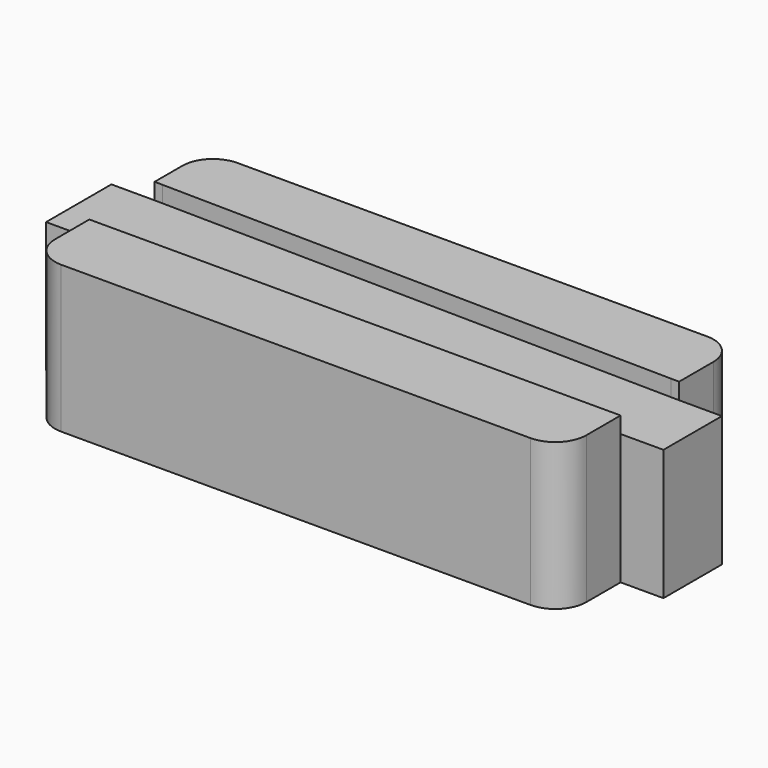
from build123d import *

# Parameters (mm, degrees)
F0_W     = 1.05921
F0_H     = 1.6
F0_W_2   = 1.05
F0_H_2   = 1.39079
F1_DEPTH = 3.2
F2_DEPTH = 3.6


with BuildPart() as f1:
    # F0 (on Top) → F1 (new body)
    with BuildSketch(Plane.XY):
        Polygon((6.352665, 1.360319), (6.352665, -0.030471), (5.302665, -0.030471), (5.302665, -0.230613), (5.502665, -0.230471), (6.552665, -0.230471), (6.552665, 1.560319), (5.502665, 1.560319), (5.302665, 1.563394), (5.302665, 1.360319), align=None)
        with BuildLine():
            Line((5.502665, -0.230471), (5.302665, -0.230613))
            Line((5.302665, -0.230613), (5.302665, -1.280471))
            ThreePointArc((5.302665, -1.280471), (5.138876, -1.675892), (4.743455, -1.839681))
            Line((4.743455, -1.839681), (-6.756545, -1.839681))
            ThreePointArc((-6.756545, -1.839681), (-7.145453, -1.67859), (-7.306545, -1.289681))
            Line((-7.306545, -1.289681), (-7.306545, -0.239539))
            Line((-7.306545, -0.239539), (-7.506545, -0.239681))
            Line((-7.506545, -0.239681), (-7.506545, -1.289681))
            ThreePointArc((-7.506545, -1.289681), (-7.286875, -1.820011), (-6.756545, -2.039681))
            Line((-6.756545, -2.039681), (4.743455, -2.039681))
            ThreePointArc((4.743455, -2.039681), (5.280298, -1.817314), (5.502665, -1.280471))
            Line((5.502665, -1.280471), (5.502665, -0.230471))
        make_face()
        Polygon((-7.506545, -0.239681), (-7.306545, -0.239539), (-7.306545, -0.039681), (-8.365755, -0.039681), (-8.365755, 1.560319), (-7.306545, 1.560319), (-7.306545, 1.757244), (-7.506545, 1.760319), (-8.565755, 1.760319), (-8.565755, -0.239681), align=None)
        with BuildLine():
            Line((5.302665, 2.610319), (5.302665, 1.563394))
            Line((5.302665, 1.563394), (5.502665, 1.560319))
            Line((5.502665, 1.560319), (5.502665, 2.610319))
            ThreePointArc((5.502665, 2.610319), (5.282995, 3.140649), (4.752665, 3.360319))
            Line((4.752665, 3.360319), (-6.756545, 3.360319))
            ThreePointArc((-6.756545, 3.360319), (-7.286875, 3.140649), (-7.506545, 2.610319))
            Line((-7.506545, 2.610319), (-7.506545, 1.760319))
            Line((-7.506545, 1.760319), (-7.306545, 1.757244))
            Line((-7.306545, 1.757244), (-7.306545, 2.610319))
            ThreePointArc((-7.306545, 2.610319), (-7.145453, 2.999228), (-6.756545, 3.160319))
            Line((-6.756545, 3.160319), (4.752665, 3.160319))
            ThreePointArc((4.752665, 3.160319), (5.141574, 2.999228), (5.302665, 2.610319))
        make_face()
        with BuildLine():
            Line((-7.306545, 1.757244), (5.302665, 1.563394))
            Line((5.302665, 1.563394), (5.302665, 2.610319))
            ThreePointArc((5.302665, 2.610319), (5.141574, 2.999228), (4.752665, 3.160319))
            Line((4.752665, 3.160319), (-6.756545, 3.160319))
            ThreePointArc((-6.756545, 3.160319), (-7.145453, 2.999228), (-7.306545, 2.610319))
            Line((-7.306545, 2.610319), (-7.306545, 1.757244))
        make_face()
        with Locations((-7.83615, 0.760319)):
            Rectangle(F0_W, F0_H)
        Polygon((5.302665, -0.230613), (5.302665, -0.030471), (5.302665, 1.360319), (5.302665, 1.563394), (-7.306545, 1.757244), (-7.306545, 1.560319), (-7.306545, -0.039681), (-7.306545, -0.239539), align=None)
        with BuildLine():
            Line((5.302665, -1.280471), (5.302665, -0.230613))
            Line((5.302665, -0.230613), (-7.306545, -0.239539))
            Line((-7.306545, -0.239539), (-7.306545, -1.289681))
            ThreePointArc((-7.306545, -1.289681), (-7.145453, -1.67859), (-6.756545, -1.839681))
            Line((-6.756545, -1.839681), (4.743455, -1.839681))
            ThreePointArc((4.743455, -1.839681), (5.138876, -1.675892), (5.302665, -1.280471))
        make_face()
        with Locations((5.827665, 0.664924)):
            Rectangle(F0_W_2, F0_H_2)
    extrude(amount=F1_DEPTH)

    # F0 (on Top) → F2 (join)
    with BuildSketch(Plane.XY):
        with BuildLine():
            Line((-7.306545, 1.757244), (5.302665, 1.563394))
            Line((5.302665, 1.563394), (5.302665, 2.610319))
            ThreePointArc((5.302665, 2.610319), (5.141574, 2.999228), (4.752665, 3.160319))
            Line((4.752665, 3.160319), (-6.756545, 3.160319))
            ThreePointArc((-6.756545, 3.160319), (-7.145453, 2.999228), (-7.306545, 2.610319))
            Line((-7.306545, 2.610319), (-7.306545, 1.757244))
        make_face()
        with BuildLine():
            Line((5.302665, -1.280471), (5.302665, -0.230613))
            Line((5.302665, -0.230613), (-7.306545, -0.239539))
            Line((-7.306545, -0.239539), (-7.306545, -1.289681))
            ThreePointArc((-7.306545, -1.289681), (-7.145453, -1.67859), (-6.756545, -1.839681))
            Line((-6.756545, -1.839681), (4.743455, -1.839681))
            ThreePointArc((4.743455, -1.839681), (5.138876, -1.675892), (5.302665, -1.280471))
        make_face()
        with BuildLine():
            Line((5.502665, -0.230471), (5.302665, -0.230613))
            Line((5.302665, -0.230613), (5.302665, -1.280471))
            ThreePointArc((5.302665, -1.280471), (5.138876, -1.675892), (4.743455, -1.839681))
            Line((4.743455, -1.839681), (-6.756545, -1.839681))
            ThreePointArc((-6.756545, -1.839681), (-7.145453, -1.67859), (-7.306545, -1.289681))
            Line((-7.306545, -1.289681), (-7.306545, -0.239539))
            Line((-7.306545, -0.239539), (-7.506545, -0.239681))
            Line((-7.506545, -0.239681), (-7.506545, -1.289681))
            ThreePointArc((-7.506545, -1.289681), (-7.286875, -1.820011), (-6.756545, -2.039681))
            Line((-6.756545, -2.039681), (4.743455, -2.039681))
            ThreePointArc((4.743455, -2.039681), (5.280298, -1.817314), (5.502665, -1.280471))
            Line((5.502665, -1.280471), (5.502665, -0.230471))
        make_face()
        with BuildLine():
            Line((5.302665, 2.610319), (5.302665, 1.563394))
            Line((5.302665, 1.563394), (5.502665, 1.560319))
            Line((5.502665, 1.560319), (5.502665, 2.610319))
            ThreePointArc((5.502665, 2.610319), (5.282995, 3.140649), (4.752665, 3.360319))
            Line((4.752665, 3.360319), (-6.756545, 3.360319))
            ThreePointArc((-6.756545, 3.360319), (-7.286875, 3.140649), (-7.506545, 2.610319))
            Line((-7.506545, 2.610319), (-7.506545, 1.760319))
            Line((-7.506545, 1.760319), (-7.306545, 1.757244))
            Line((-7.306545, 1.757244), (-7.306545, 2.610319))
            ThreePointArc((-7.306545, 2.610319), (-7.145453, 2.999228), (-6.756545, 3.160319))
            Line((-6.756545, 3.160319), (4.752665, 3.160319))
            ThreePointArc((4.752665, 3.160319), (5.141574, 2.999228), (5.302665, 2.610319))
        make_face()
    extrude(amount=F2_DEPTH)


solid = f1.part
